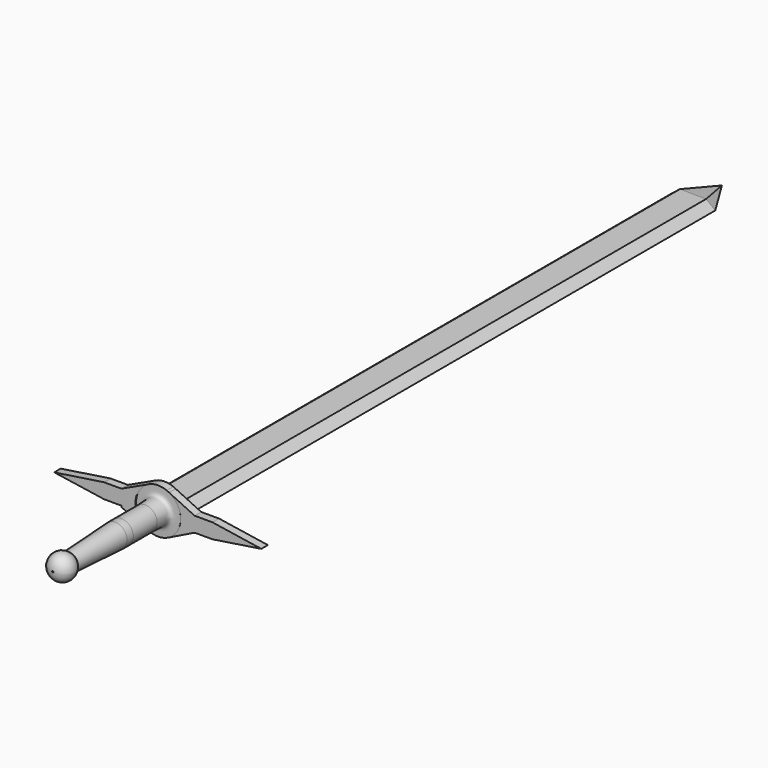
from build123d import *

# Parameters (mm, degrees)
F2_W     = 3.7265494466
F2_H     = 3.2452103915
F2_W_2   = 3.8878694177
F3_DEPTH = 1.778
F5_DEPTH = 145.034


with BuildPart() as f1:
    # F0 (on Top) → F1 (revolve)
    with BuildSketch(Plane.XY):
        with BuildLine():
            Line((-127.0902585749, -61.5358054638), (-127.0902585749, -55.0634515109))
            add(Edge.make_bspline(
                [(-129.669457674, -54.1646741331), (-128.2850205898, -54.2526878417), (-127.9523950581, -54.2903457406), (-127.0902585749, -55.0634515109)],
                knots=[0, 0, 0, 0, 2.7313126456, 2.7313126456, 2.7313126456, 2.7313126456], degree=3))
            Line((-129.669457674, -54.1646741331), (-129.635438323, -61.5358054638))
            Line((-129.635438323, -61.5358054638), (-127.0902585749, -61.5358054638))
        make_face()
        with BuildLine():
            add(Edge.make_bspline(
                [(-129.669457674, -54.1646741331), (-128.2850205898, -54.2526878417), (-127.9523950581, -54.2903457406), (-127.0902585749, -55.0634515109)],
                knots=[0, 0, 0, 0, 2.7313126456, 2.7313126456, 2.7313126456, 2.7313126456], degree=3))
            add(Edge.make_bspline(
                [(-127.0902585749, -55.0634515109), (-127.0711956695, -51.5209063888), (-127.0976996838, -51.5209063888), (-124.8294711113, -51.5209063888)],
                knots=[0, 0, 0, 0, 4.2024737832, 4.2024737832, 4.2024737832, 4.2024737832], degree=3))
            Line((-124.8294711113, -51.5209063888), (-129.669457674, -51.5209063888))
            Line((-129.669457674, -51.5209063888), (-129.669457674, -54.1646741331))
        make_face()
        Polygon((-127.0909756422, -63.2276013494), (-127.0902585749, -61.5358054638), (-129.635438323, -61.5358054638), (-129.635438323, -63.25340271), align=None)
        with BuildLine():
            Line((-127.7048313232, -75.7807434323), (-127.0909756422, -63.2276013494))
            Line((-127.0909756422, -63.2276013494), (-129.635438323, -63.25340271))
            Line((-129.635438323, -63.25340271), (-129.5152439055, -75.1066617071))
            ThreePointArc((-129.5152439055, -75.1066617071), (-128.5431259435, -75.263994789), (-127.7048313232, -75.7807434323))
        make_face()
        with BuildLine():
            ThreePointArc((-129.5152439055, -80.1606514156), (-127.0886064754, -78.5995732103), (-127.7048313232, -75.7807434323))
            ThreePointArc((-127.7048313232, -75.7807434323), (-128.5431259435, -75.263994789), (-129.5152439055, -75.1066617071))
            Line((-129.5152439055, -75.1066617071), (-129.5152439055, -80.1606514156))
        make_face()
    revolve(axis=Axis((-129.669457674, -52.8427902609, 0), (0, -1, 0)))


with BuildPart() as f3:
    # F2 (on face) → F3 (new body)
    with BuildSketch(Plane(origin=(0, -51.5209063888, 0), x_dir=(-1, 0, 0), z_dir=(0, 1, 0))):
        with Locations((139.5624317229, 0)):
            Rectangle(F2_W, F2_H)
        Polygon((152.2654891014, 0), (141.4257064462, 1.6226051957), (141.4257064462, -1.6226051957), align=None)
        with BuildLine():
            Line((137.6991569996, -1.6226051957), (137.6991569996, 1.6226051957))
            Line((137.6991569996, 1.6226051957), (134.3205327463, 1.6226051957))
            ThreePointArc((134.3205327463, 1.6226051957), (134.6124994318, 0.0026180172), (134.3512476145, -1.6226051957))
            Line((134.3512476145, -1.6226051957), (137.6991569996, -1.6226051957))
        make_face()
        with BuildLine():
            Line((134.3205327463, 1.6226051957), (137.6991569996, 1.6226051957))
            Line((137.6991569996, 1.6226051957), (132.1454062558, 4.2083863288))
            ThreePointArc((132.1454062558, 4.2083863288), (133.4630258653, 3.1090162755), (134.3205327463, 1.6226051957))
        make_face()
        with BuildLine():
            Line((125.1095648786, 1.6226051957), (134.3205327463, 1.6226051957))
            ThreePointArc((134.3205327463, 1.6226051957), (133.4630258653, 3.1090162755), (132.1454062558, 4.2083863288))
            ThreePointArc((132.1454062558, 4.2083863288), (130.034461551, 4.8435084859), (127.8588082619, 4.4885430413))
            Line((127.8588082619, 4.4885430413), (127.3474626864, 4.2466232709))
            ThreePointArc((127.3474626864, 4.2466232709), (125.9868685604, 3.1407017286), (125.1095648786, 1.6226051957))
        make_face()
        with BuildLine():
            Line((137.6991569996, -1.9126803963), (137.6991569996, -1.6226051957))
            Line((137.6991569996, -1.6226051957), (134.3512476145, -1.6226051957))
            ThreePointArc((134.3512476145, -1.6226051957), (133.6309256802, -2.9853464903), (132.5227364323, -4.0567213621))
            Line((132.5227364323, -4.0567213621), (137.6991569996, -1.9126803963))
        make_face()
        with BuildLine():
            ThreePointArc((125.0788500104, -1.6226051957), (124.8175981931, 0.0026180172), (125.1095648786, 1.6226051957))
            Line((125.1095648786, 1.6226051957), (121.8010783195, 1.6226051957))
            Line((121.8010783195, 1.6226051957), (121.8010783195, -1.6226051957))
            Line((121.8010783195, -1.6226051957), (125.0788500104, -1.6226051957))
        make_face()
        with BuildLine():
            Line((121.8010783195, 1.6226051957), (125.1095648786, 1.6226051957))
            ThreePointArc((125.1095648786, 1.6226051957), (125.9868685604, 3.1407017286), (127.3474626864, 4.2466232709))
            Line((127.3474626864, 4.2466232709), (121.8010783195, 1.6226051957))
        make_face()
        with BuildLine():
            ThreePointArc((132.5227364323, -4.0567213621), (133.6309256802, -2.9853464903), (134.3512476145, -1.6226051957))
            Line((134.3512476145, -1.6226051957), (125.0788500104, -1.6226051957))
            ThreePointArc((125.0788500104, -1.6226051957), (126.0390793221, -3.2801555498), (127.5616517136, -4.442604181))
            ThreePointArc((127.5616517136, -4.442604181), (130.0948519311, -4.9266561038), (132.5227364323, -4.0567213621))
        make_face()
        with BuildLine():
            Line((127.3474626864, 4.2466232709), (127.8588082619, 4.4885430413))
            ThreePointArc((127.8588082619, 4.4885430413), (127.5995980828, 4.3750601367), (127.3474626864, 4.2466232709))
        make_face()
        with Locations((119.8571436107, 0)):
            Rectangle(F2_W_2, F2_H)
        with BuildLine():
            ThreePointArc((127.5616517136, -4.442604181), (126.0390793221, -3.2801555498), (125.0788500104, -1.6226051957))
            Line((125.0788500104, -1.6226051957), (121.8010783195, -1.6226051957))
            Line((121.8010783195, -1.6226051957), (127.5616517136, -4.442604181))
        make_face()
        Polygon((117.9132089019, -1.6226051957), (117.9132089019, 1.6226051957), (107.3257997632, 0), align=None)
    extrude(amount=F3_DEPTH)


with BuildPart() as f5:
    # F4 (on face) → F5 (new body)
    with BuildSketch(Plane(origin=(0, -51.5209063888, 0), x_dir=(-1, 0, 0), z_dir=(0, 1, 0))):
        Polygon((126.8343776464, 1.5322518302), (124.8294711113, 0), (126.8343776464, -1.5685113613), (132.5649023056, -1.5685113613), (134.5094442368, 0), (132.525652647, 1.5715019545), align=None)
    extrude(amount=F5_DEPTH)

    # F6 (on face) → F9 section 0
    with BuildSketch(Plane(origin=(0, 93.5130936112, 0), x_dir=(-1, 0, 0), z_dir=(0, 1, 0)), mode=Mode.PRIVATE) as f9_s0:
        Polygon((126.8343776464, 1.5322518302), (124.831040289, 0.0011992456), (124.831040289, -0.0012276248), (126.8343776464, -1.5685113613), (132.5649023056, -1.5685113613), (134.5094442368, 0), (132.525652647, 1.5715019545), align=None)
    loft([f9_s0.sketch, Vertex(-129.6916604042, 101.3870936112, 0)])


solid = Compound([f1.part, f3.part, f5.part])
